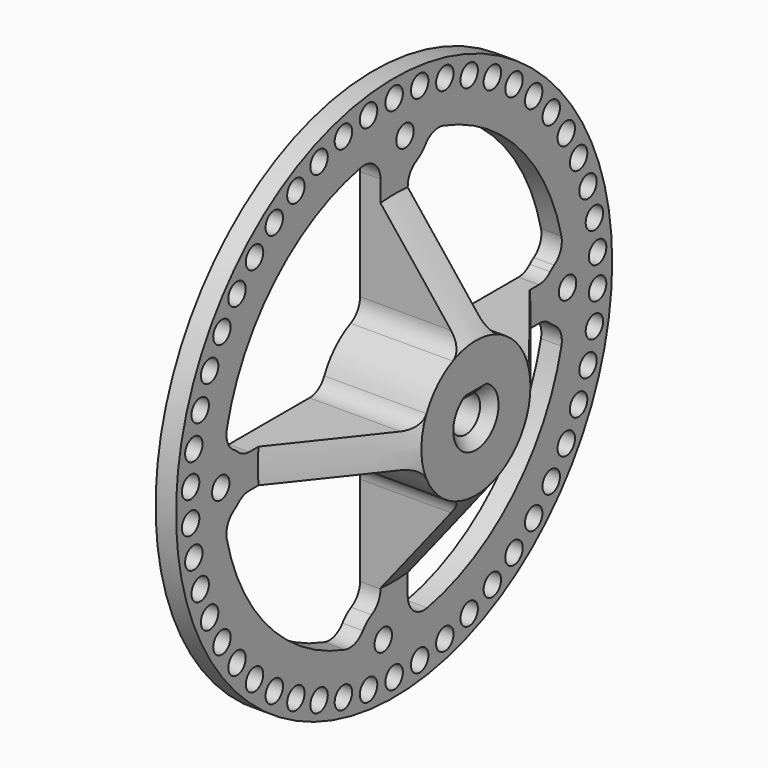
from build123d import *

# Parameters (mm, degrees)
SKETCH_R           = 40
PAD_DEPTH          = 3
SKETCH001_R        = 1.6
POCKET_DEPTH       = 229.354706
POLARPATTERN_COUNT = 50
SKETCH002_R        = 1.6
POCKET001_DEPTH    = 3.001
SKETCH003_R        = 10
PAD001_DEPTH       = 15
POCKET002_DEPTH    = 15.001
FILLET_R           = 3
CHAMFER_SIZE2      = 15
CHAMFER_SIZE       = 11.99
FILLET001_R        = 3
CHAMFER001_SIZE    = 1.5


with BuildPart() as part:
    # Sketch → Pad (new body)
    with BuildSketch(Plane.YZ):
        Circle(SKETCH_R)
    extrude(amount=PAD_DEPTH)

    # Sketch001 (on Face3 of Pad) → Pocket (cut, through all)
    with BuildSketch(Plane.YZ.offset(3)):
        with Locations((0, 37.4)):
            Circle(SKETCH001_R)
    pocket = extrude(amount=-POCKET_DEPTH, mode=Mode.SUBTRACT)

    # PolarPattern: Pocket ×50 about axis
    polarpattern_axis = Axis((3, 0, 0), (1, 0, 0))
    for i in range(1, POLARPATTERN_COUNT):
        add(pocket.rotate(polarpattern_axis, i * 360 / POLARPATTERN_COUNT), mode=Mode.SUBTRACT)

    # Sketch002 (on Face3 of PolarPattern) → Pocket001 (cut, through all)
    with BuildSketch(Plane.YZ.offset(3)):
        with Locations((1.997044, 31.742101)):
            Circle(SKETCH002_R)
        with Locations((31.804861, 0)):
            Circle(SKETCH002_R)
        with Locations((-1.997044, -31.742101)):
            Circle(SKETCH002_R)
        with Locations((-31.804861, 0)):
            Circle(SKETCH002_R)
        with BuildLine():
            ThreePointArc((2.5, 27.16968), (5.096738, 28.343293), (6.503929, 30.821241))
            ThreePointArc((31.168808, 4.555813), (22.962512, 21.563234), (6.503929, 30.821241))
            ThreePointArc((31.168808, 4.555813), (29.332363, 3.879015), (27.943514, 2.5))
            Line((2.5, 2.5), (27.943514, 2.5))
            Line((2.5, 2.5), (2.5, 27.16968))
        make_face()
        with BuildLine():
            Line((-2.5, 31.400637), (-2.5, 2.5))
            Line((-2.5, 2.5), (-27.943514, 2.5))
            ThreePointArc((-27.943514, 2.5), (-29.332363, 3.879015), (-31.168808, 4.555813))
            ThreePointArc((-2.5, 31.400637), (-21.530404, 22.993297), (-31.168808, 4.555813))
        make_face()
        with BuildLine():
            Line((2.5, -2.5), (2.5, -31.400637))
            ThreePointArc((2.5, -31.400637), (21.530404, -22.993297), (31.168808, -4.555813))
            ThreePointArc((27.943514, -2.5), (29.332363, -3.879015), (31.168808, -4.555813))
            Line((2.5, -2.5), (27.943514, -2.5))
        make_face()
        with BuildLine():
            Line((-2.5, -27.16968), (-2.5, -2.5))
            Line((-2.5, -2.5), (-27.943514, -2.5))
            ThreePointArc((-31.168808, -4.555813), (-29.332363, -3.879015), (-27.943514, -2.5))
            ThreePointArc((-31.168808, -4.555813), (-22.962512, -21.563234), (-6.503929, -30.821241))
            ThreePointArc((-2.5, -27.16968), (-5.096738, -28.343293), (-6.503929, -30.821241))
        make_face()
    extrude(amount=-POCKET001_DEPTH, mode=Mode.SUBTRACT)

    # Sketch003 → Pad001 (join)
    with BuildSketch(Plane.YZ):
        Circle(SKETCH003_R)
    extrude(amount=PAD001_DEPTH)

    # Sketch004 (on Face76 of Pad001) → Pocket002 (cut, through all)
    with BuildSketch(Plane.YZ.offset(15)):
        with BuildLine():
            ThreePointArc((-1.549193, 2.15), (0, -2.65), (1.549193, 2.15))
            Line((-1.549193, 2.15), (1.549193, 2.15))
        make_face()
    extrude(amount=-POCKET002_DEPTH, mode=Mode.SUBTRACT)

    # Fillet
    fillet_edges = [part.edges().sort_by_distance(p)[0] for p in [
        (1.5, 6.503929, 30.821241),
        (1.5, -2.5, 31.400637),
        (1.5, 31.168808, 4.555813),
        (1.5, 27.943514, 2.5),
        (1.5, 27.943514, -2.5),
        (1.5, 31.168808, -4.555813),
        (1.5, -2.5, -27.16968),
        (1.5, -6.503929, -30.821241),
        (1.5, -27.943514, -2.5),
        (1.5, -31.168808, -4.555813),
        (1.5, -27.943514, 2.5),
        (1.5, -31.168808, 4.555813),
        (1.5, 2.5, -31.400637),
        (1.5, 2.5, 27.16968),
    ]]
    fillet(fillet_edges, radius=FILLET_R)

    # Chamfer
    chamfer_edges = [part.edges().sort_by_distance(p)[0] for p in [
        (3, -10, 0),
        (3, 0, -10),
        (3, 9.920297, -1.260043),
        (3, 9.920297, 1.260043),
        (3, 0, 10),
    ]]
    chamfer_side = part.faces().sort_by_distance((7.5, -10, 0))[0]
    chamfer(chamfer_edges, length=CHAMFER_SIZE, length2=CHAMFER_SIZE2, reference=chamfer_side)

    # Fillet001
    fillet001_edges = [part.edges().sort_by_distance(p)[0] for p in [
        (8.995, 2.5, -9.682458),
        (1.5, 2.5, -9.682458),
        (1.5, 9.682458, -2.5),
        (8.995, 9.682458, -2.5),
        (1.5, 9.682458, 2.5),
        (8.995, 9.682458, 2.5),
        (8.995, 2.5, 9.682458),
        (1.5, 2.5, 9.682458),
        (1.5, -9.682458, 2.5),
        (8.995, -9.682458, 2.5),
        (1.5, -2.5, 9.682458),
        (8.995, -2.5, 9.682458),
        (1.5, -9.682458, -2.5),
        (8.995, -9.682458, -2.5),
        (1.5, -2.5, -9.682458),
        (8.995, -2.5, -9.682458),
    ]]
    fillet(fillet001_edges, radius=FILLET001_R)

    # Chamfer001
    chamfer001_edges = [part.edges().sort_by_distance(p)[0] for p in [
        (15, 0, -2.65),
        (15, 0, 2.15),
    ]]
    chamfer(chamfer001_edges, length=CHAMFER001_SIZE)


solid = part.part
